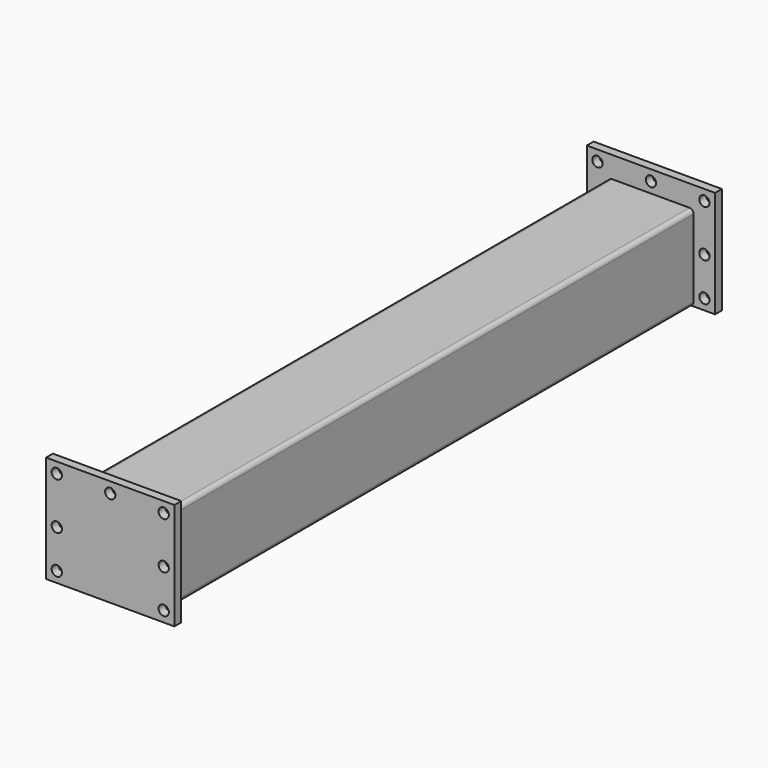
from build123d import *

# Parameters (mm, degrees)
F1_DEPTH = 780
F3_W     = 150
F3_H     = 125
F3_R     = 6
F4_DEPTH = 10
F7_W     = 150
F7_H     = 125
F7_R     = 6
F8_DEPTH = 10


with BuildPart() as f1:
    # F0 (on Front) → F1 (new body)
    with BuildSketch(Plane.XZ):
        with BuildLine():
            ThreePointArc((50, 45), (48.5355339059, 48.5355339059), (45, 50))
            Line((45, 50), (-45, 50))
            ThreePointArc((-45, 50), (-48.5355339059, 48.5355339059), (-50, 45))
            Line((-50, 45), (-50, -45))
            ThreePointArc((-50, -45), (-48.5355339059, -48.5355339059), (-45, -50))
            Line((-45, -50), (45, -50))
            ThreePointArc((45, -50), (48.5355339059, -48.5355339059), (50, -45))
            Line((50, -45), (50, 45))
        make_face()
        with BuildLine():
            ThreePointArc((-47, 45), (-46.4142135624, 46.4142135624), (-45, 47))
            Line((-45, 47), (45, 47))
            ThreePointArc((45, 47), (46.4142135624, 46.4142135624), (47, 45))
            Line((47, 45), (47, -45))
            ThreePointArc((47, -45), (46.4142135624, -46.4142135624), (45, -47))
            Line((45, -47), (-45, -47))
            ThreePointArc((-45, -47), (-46.4142135624, -46.4142135624), (-47, -45))
            Line((-47, -45), (-47, 45))
        make_face(mode=Mode.SUBTRACT)
    extrude(amount=-F1_DEPTH)


with BuildPart() as f4:
    # F3 (on offset) → F4 (new body)
    with BuildSketch(Plane.XZ.offset(10)):
        with Locations((0, 12.5)):
            Rectangle(F3_W, F3_H)
        with Locations((-62.5, -37.5)):
            Circle(F3_R, mode=Mode.SUBTRACT)
        with Locations((-62.5, 7.5)):
            Circle(F3_R, mode=Mode.SUBTRACT)
        with Locations((62.5, -37.5)):
            Circle(F3_R, mode=Mode.SUBTRACT)
        with Locations((62.5, 7.5)):
            Circle(F3_R, mode=Mode.SUBTRACT)
        with Locations((-62.5, 62.5)):
            Circle(F3_R, mode=Mode.SUBTRACT)
        with Locations((0, 62.5)):
            Circle(F3_R, mode=Mode.SUBTRACT)
        with Locations((62.5, 62.5)):
            Circle(F3_R, mode=Mode.SUBTRACT)
    extrude(amount=-F4_DEPTH)


with BuildPart() as f1_1:
    add(f1.part)

    # F5: union F4
    add(f4.part)

    # F7 (on offset) → F8 (join)
    with BuildSketch(Plane(origin=(0, 790, 0), x_dir=(-1, 0, 0), z_dir=(0, 1, 0))):
        with Locations((0, 12.5)):
            Rectangle(F7_W, F7_H)
        with Locations((-62.5, -37.5)):
            Circle(F7_R, mode=Mode.SUBTRACT)
        with Locations((-62.5, 7.5)):
            Circle(F7_R, mode=Mode.SUBTRACT)
        with Locations((62.5, -37.5)):
            Circle(F7_R, mode=Mode.SUBTRACT)
        with Locations((62.5, 7.5)):
            Circle(F7_R, mode=Mode.SUBTRACT)
        with Locations((-62.5, 62.5)):
            Circle(F7_R, mode=Mode.SUBTRACT)
        with Locations((0, 62.5)):
            Circle(F7_R, mode=Mode.SUBTRACT)
        with Locations((62.5, 62.5)):
            Circle(F7_R, mode=Mode.SUBTRACT)
    extrude(amount=-F8_DEPTH)


solid = f1_1.part
